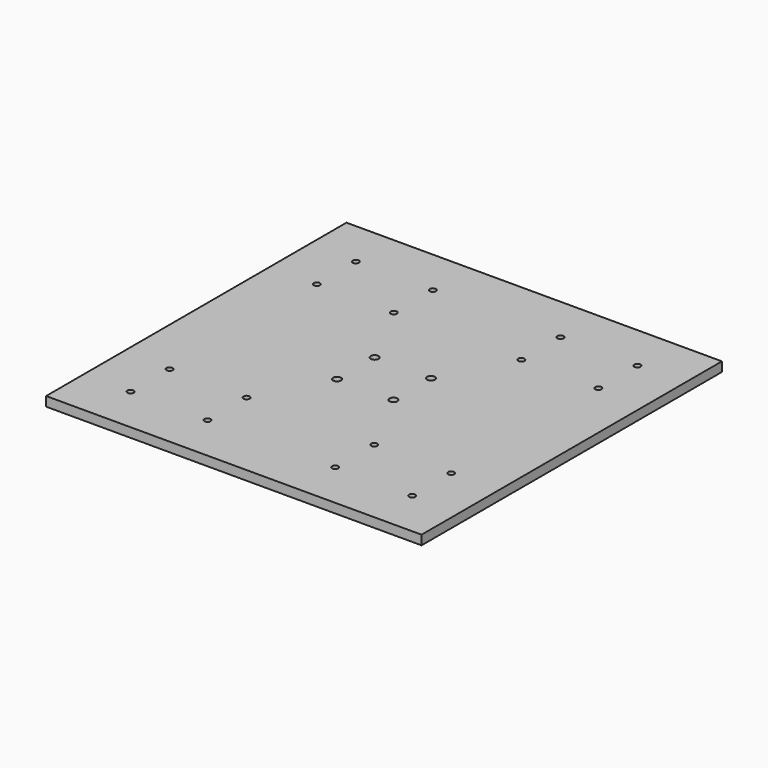
from build123d import *

# Parameters (mm, degrees)
F0_W     = 200
F0_H     = 200
F0_R     = 1.65
F0_R_2   = 2.1
F1_DEPTH = 5


with BuildPart() as f1:
    # F0 (on Top) → F1 (new body)
    with BuildSketch(Plane.XY):
        Rectangle(F0_W, F0_H)
        with Locations((-75, -75)):
            Circle(F0_R, mode=Mode.SUBTRACT)
        with Locations((-34, -75)):
            Circle(F0_R, mode=Mode.SUBTRACT)
        with Locations((-75, -49)):
            Circle(F0_R, mode=Mode.SUBTRACT)
        with Locations((-34, -49)):
            Circle(F0_R, mode=Mode.SUBTRACT)
        with Locations((-15, -12.5)):
            Circle(F0_R_2, mode=Mode.SUBTRACT)
        with Locations((34, -75)):
            Circle(F0_R, mode=Mode.SUBTRACT)
        with Locations((75, -75)):
            Circle(F0_R, mode=Mode.SUBTRACT)
        with Locations((34, -49)):
            Circle(F0_R, mode=Mode.SUBTRACT)
        with Locations((15, -12.5)):
            Circle(F0_R_2, mode=Mode.SUBTRACT)
        with Locations((75, -49)):
            Circle(F0_R, mode=Mode.SUBTRACT)
        with Locations((-75, 49)):
            Circle(F0_R, mode=Mode.SUBTRACT)
        with Locations((-15, 12.5)):
            Circle(F0_R_2, mode=Mode.SUBTRACT)
        with Locations((-34, 49)):
            Circle(F0_R, mode=Mode.SUBTRACT)
        with Locations((-75, 75)):
            Circle(F0_R, mode=Mode.SUBTRACT)
        with Locations((-34, 75)):
            Circle(F0_R, mode=Mode.SUBTRACT)
        with Locations((15, 12.5)):
            Circle(F0_R_2, mode=Mode.SUBTRACT)
        with Locations((34, 49)):
            Circle(F0_R, mode=Mode.SUBTRACT)
        with Locations((75, 49)):
            Circle(F0_R, mode=Mode.SUBTRACT)
        with Locations((34, 75)):
            Circle(F0_R, mode=Mode.SUBTRACT)
        with Locations((75, 75)):
            Circle(F0_R, mode=Mode.SUBTRACT)
    extrude(amount=F1_DEPTH)


solid = f1.part
